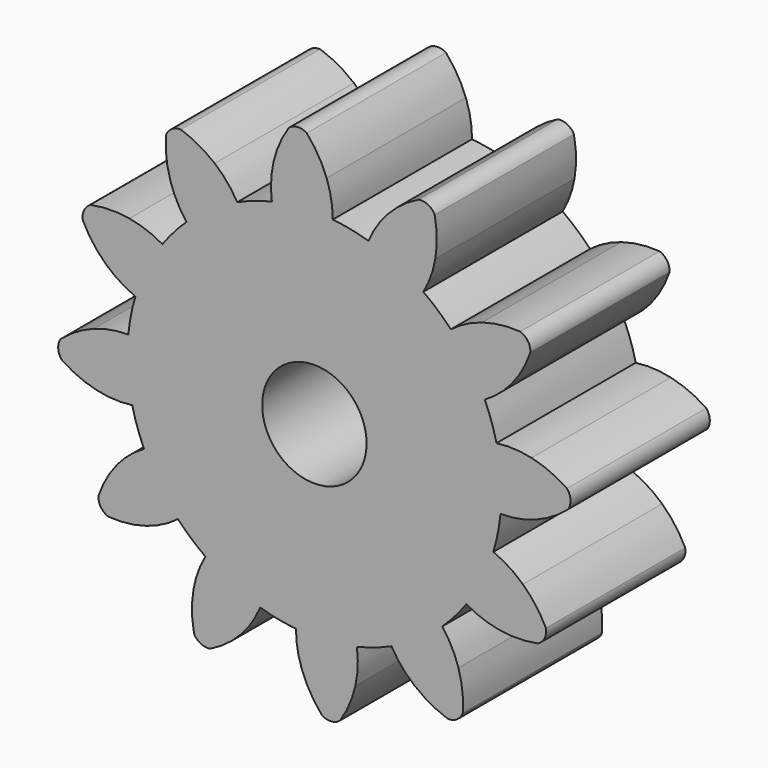
from build123d import *

# Parameters (mm, degrees)
F0_R     = 7.5
F1_DEPTH = 25
F2_COUNT = 12


with BuildPart() as f1:
    # F0 (on Front) → F1 (new body)
    with BuildSketch(Plane.XZ):
        with BuildLine():
            ThreePointArc((-6.1091880069, 26.1565342151), (-16.6941698774, -21.0426032694), (26.8605, 0))
            ThreePointArc((26.8605, 0), (19.9056984907, 18.0346784792), (2.6428102438, 26.730170487))
            ThreePointArc((2.6428102438, 26.730170487), (-1.7567607527, 26.8029896077), (-6.1091880069, 26.1565342151))
        make_face()
        Circle(F0_R, mode=Mode.SUBTRACT)
        with BuildLine():
            ThreePointArc((-6.1091880069, 26.1565342151), (-1.7567607527, 26.8029896077), (2.6428102438, 26.730170487))
            ThreePointArc((2.6428102438, 26.730170487), (2.4251144776, 29.2498198282), (1.7620628695, 31.6903908298))
            ThreePointArc((1.7620628695, 31.6903908298), (0.5553108285, 34.2041049192), (-1.0943776943, 36.4521122122))
            ThreePointArc((-1.0943776943, 36.4521122122), (-2.4115265943, 36.792785897), (-3.672940264, 36.2831042923))
            ThreePointArc((-3.672940264, 36.2831042923), (-5.0150916407, 33.8390014521), (-5.8834142223, 31.1892797863))
            ThreePointArc((-5.8834142223, 31.1892797863), (-6.2222348924, 28.6830426063), (-6.1091880069, 26.1565342151))
        make_face()
    extrude(amount=F1_DEPTH)

    # F2: F1 ×12 about axis
    f2_axis = Axis((0, 0, 0), (0, 1, 0))


with BuildPart() as f1_1:
    add(f1.part)
    for i in range(1, F2_COUNT):
        add(f1.part.rotate(f2_axis, i * 360 / F2_COUNT))


solid = f1_1.part
